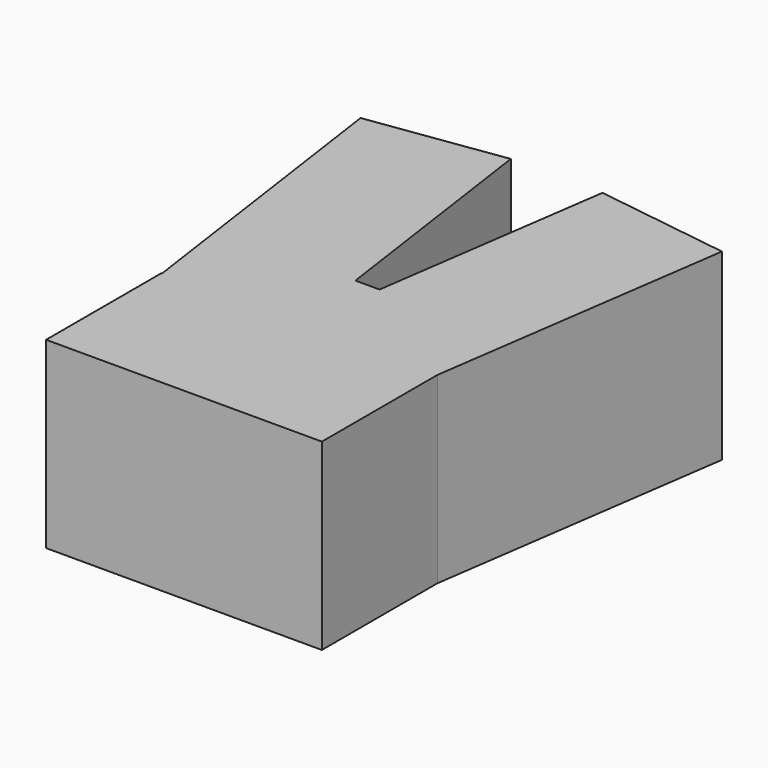
from build123d import *

# Parameters (mm, degrees)
F1_DEPTH = 20
F2_R     = 6.0518975937
F3_DEPTH = 10
F4_R     = 6
F5_DEPTH = 10


with BuildPart() as f1:
    # F0 (on Top) → F1 (new body)
    with BuildSketch(Plane.XY):
        Polygon((-5, 35), (-19.7, 32.9), (-15, 0), (-15.0675689802, 0), (-15.0675689802, -15.7475546002), (15, -15.7475546002), (15, 0), (19.7, 32.9), (5, 35), (1.3167639755, 9.2173478283), (-1.3167639755, 9.2173478283), align=None)
    extrude(amount=F1_DEPTH)

    # F2 (on face) → F3 (cut)
    with BuildSketch(Plane(origin=(-5, 35, 0), x_dir=(-0.9899494937, -0.1414213562, 0), z_dir=(-0.1414213562, 0.9899494937, 0))):
        with Locations((7.4246212025, 10)):
            Circle(F2_R)
    extrude(amount=-F3_DEPTH, mode=Mode.SUBTRACT)

    # F4 (on face) → F5 (cut)
    with BuildSketch(Plane(origin=(5, 35, 0), x_dir=(-0.9899494937, 0.1414213562, 0), z_dir=(0.1414213562, 0.9899494937, 0))):
        with Locations((-7.4246212025, 10)):
            Circle(F4_R)
    extrude(amount=-F5_DEPTH, mode=Mode.SUBTRACT)


solid = f1.part
